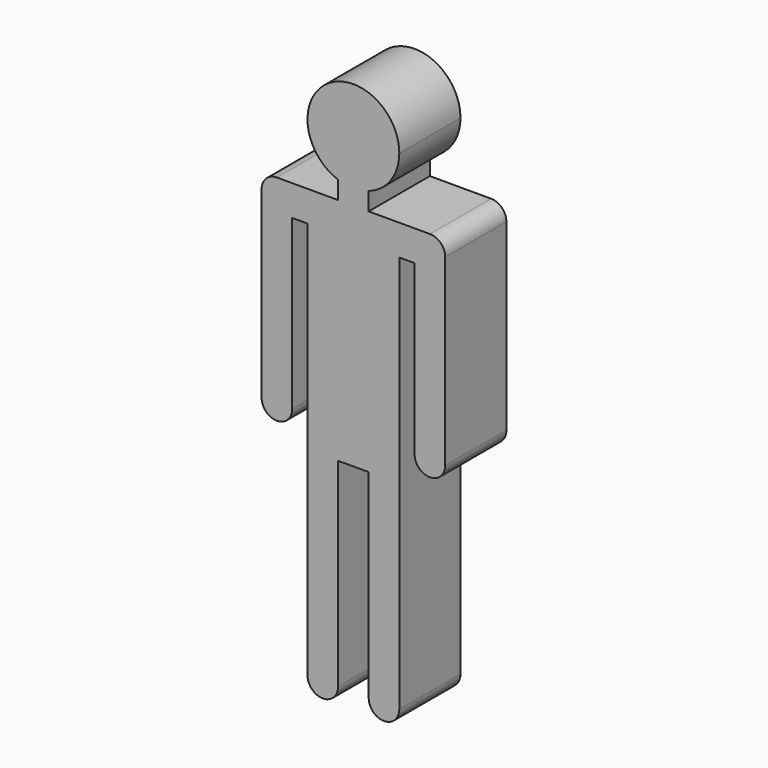
from build123d import *

# Parameters (mm, degrees)
F0_W     = 5
F0_H     = 5
F1_DEPTH = 25


with BuildPart() as f1:
    # F0 (on Front) → F1 (new body)
    with BuildSketch(Plane.XZ):
        with BuildLine():
            ThreePointArc((35, 150.8578643763), (42.2474487139, 156.3397459622), (45, 165))
            ThreePointArc((45, 165), (21.3397459622, 177.2474487139), (25, 150.8578643763))
            ThreePointArc((25, 150.8578643763), (27.4634703191, 150.2160216052), (30, 150))
            ThreePointArc((30, 150), (32.5365296809, 150.2160216052), (35, 150.8578643763))
        make_face()
        with BuildLine():
            ThreePointArc((30, 150), (27.4634703191, 150.2160216052), (25, 150.8578643763))
            Line((25, 150.8578643763), (25, 145))
            Line((25, 145), (30, 145))
            Line((30, 145), (30, 150))
        make_face()
        with BuildLine():
            Line((35, 145), (35, 150.8578643763))
            ThreePointArc((35, 150.8578643763), (32.5365296809, 150.2160216052), (30, 150))
            Line((30, 150), (30, 145))
            Line((30, 145), (35, 145))
        make_face()
        with BuildLine():
            Line((25, 140), (25, 145))
            Line((25, 145), (5, 145))
            ThreePointArc((5, 145), (8.5355339059, 143.5355339059), (10, 140))
            Line((10, 140), (25, 140))
        make_face()
        with BuildLine():
            Line((30, 145), (25, 145))
            Line((25, 145), (25, 140))
            ThreePointArc((25, 140), (26.4644660941, 143.5355339059), (30, 145))
        make_face()
        with BuildLine():
            Line((35, 140), (35, 145))
            Line((35, 145), (30, 145))
            ThreePointArc((30, 145), (33.5355339059, 143.5355339059), (35, 140))
        make_face()
        with BuildLine():
            Line((55, 145), (35, 145))
            Line((35, 145), (35, 140))
            Line((35, 140), (50, 140))
            ThreePointArc((50, 140), (51.4644660941, 143.5355339059), (55, 145))
        make_face()
        with BuildLine():
            ThreePointArc((10, 140), (8.5355339059, 143.5355339059), (5, 145))
            ThreePointArc((5, 145), (1.4644660941, 143.5355339059), (0, 140))
            ThreePointArc((0, 140), (1.4644660941, 136.4644660941), (5, 135))
            Line((5, 135), (5, 140))
            Line((5, 140), (10, 140))
        make_face()
        with BuildLine():
            ThreePointArc((30, 135), (26.4644660941, 136.4644660941), (25, 140))
            Line((25, 140), (10, 140))
            Line((10, 140), (10, 135))
            Line((10, 135), (15, 135))
            Line((15, 135), (30, 135))
        make_face()
        with BuildLine():
            ThreePointArc((60, 140), (58.5355339059, 143.5355339059), (55, 145))
            ThreePointArc((55, 145), (51.4644660941, 143.5355339059), (50, 140))
            Line((50, 140), (55, 140))
            Line((55, 140), (55, 135))
            ThreePointArc((55, 135), (58.5355339059, 136.4644660941), (60, 140))
        make_face()
        with BuildLine():
            Line((50, 140), (35, 140))
            ThreePointArc((35, 140), (33.5355339059, 136.4644660941), (30, 135))
            Line((30, 135), (45, 135))
            Line((45, 135), (50, 135))
            Line((50, 135), (50, 140))
        make_face()
        with BuildLine():
            ThreePointArc((5, 135), (1.4644660941, 136.4644660941), (0, 140))
            Line((0, 140), (0, 80))
            ThreePointArc((0, 80), (5, 75), (10, 80))
            Line((10, 80), (10, 135))
            Line((10, 135), (5, 135))
        make_face()
        with Locations((7.5, 137.5)):
            Rectangle(F0_W, F0_H)
        with BuildLine():
            Line((45, 135), (30, 135))
            Line((30, 135), (30, 75))
            Line((30, 75), (35, 75))
            ThreePointArc((35, 75), (40, 80), (45, 75))
            Line((45, 75), (45, 135))
        make_face()
        with BuildLine():
            Line((30, 75), (30, 135))
            Line((30, 135), (15, 135))
            Line((15, 135), (15, 75))
            ThreePointArc((15, 75), (20, 80), (25, 75))
            Line((25, 75), (30, 75))
        make_face()
        with BuildLine():
            Line((60, 80), (60, 140))
            ThreePointArc((60, 140), (58.5355339059, 136.4644660941), (55, 135))
            Line((55, 135), (50, 135))
            Line((50, 135), (50, 80))
            ThreePointArc((50, 80), (55, 75), (60, 80))
        make_face()
        with Locations((52.5, 137.5)):
            Rectangle(F0_W, F0_H)
        Polygon((35, 75), (30, 75), (25, 75), (25, 70), (30, 70), (35, 70), align=None)
        with BuildLine():
            Line((25, 70), (25, 75))
            ThreePointArc((25, 75), (20, 80), (15, 75))
            Line((15, 75), (15, 5))
            ThreePointArc((15, 5), (20, 0), (25, 5))
            Line((25, 5), (25, 70))
        make_face()
        with BuildLine():
            ThreePointArc((45, 75), (40, 80), (35, 75))
            Line((35, 75), (35, 70))
            Line((35, 70), (35, 5))
            ThreePointArc((35, 5), (40, 0), (45, 5))
            Line((45, 5), (45, 75))
        make_face()
        with BuildLine():
            ThreePointArc((35, 140), (33.5355339059, 143.5355339059), (30, 145))
            Line((30, 145), (30, 140))
            Line((30, 140), (35, 140))
        make_face()
        with BuildLine():
            Line((30, 140), (30, 145))
            ThreePointArc((30, 145), (26.4644660941, 143.5355339059), (25, 140))
            Line((25, 140), (30, 140))
        make_face()
        with BuildLine():
            Line((30, 140), (25, 140))
            ThreePointArc((25, 140), (26.4644660941, 136.4644660941), (30, 135))
            Line((30, 135), (30, 140))
        make_face()
        with BuildLine():
            ThreePointArc((30, 135), (33.5355339059, 136.4644660941), (35, 140))
            Line((35, 140), (30, 140))
            Line((30, 140), (30, 135))
        make_face()
    extrude(amount=F1_DEPTH)


solid = f1.part
